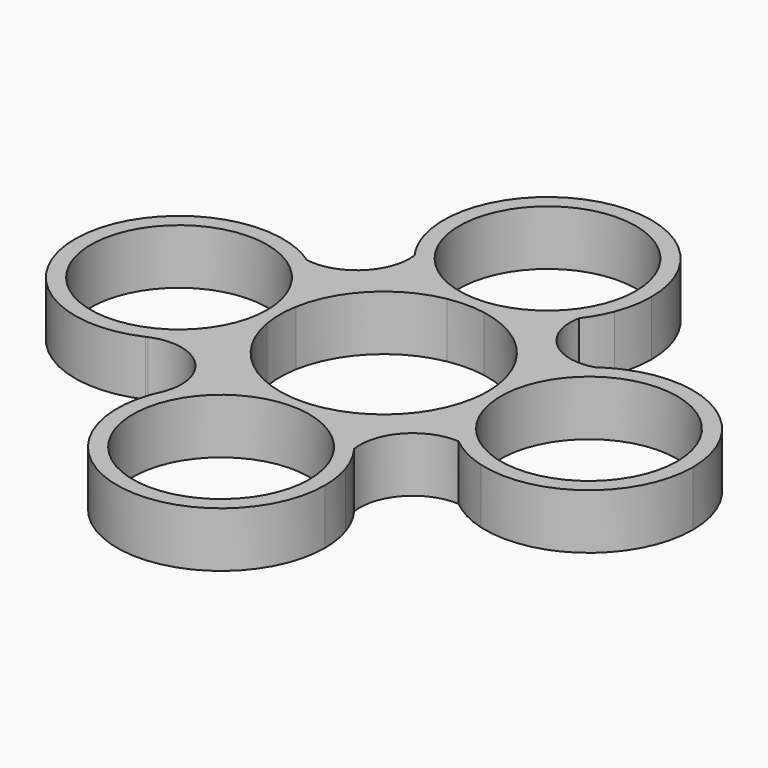
from build123d import *

# Parameters (mm, degrees)
F0_R     = 11.2
F1_DEPTH = 7


with BuildPart() as f1:
    # F0 (on Top) → F1 (new body)
    with BuildSketch(Plane.XY):
        with BuildLine():
            ThreePointArc((13.026173, 2.135137), (13.156472, 1.071101), (13.2, 0))
            ThreePointArc((13.2, 0), (13.156472, -1.071101), (13.026173, -2.135137))
            ThreePointArc((13.026173, -2.135137), (14.605448, -6.573318), (17.642623, -10.174308))
            ThreePointArc((17.642623, -10.174308), (20.336655, -10.92785), (22.492241, -12.710848))
            ThreePointArc((22.492241, -12.710848), (34.028768, -10.517447), (39.252346, 0))
            ThreePointArc((39.252346, 0), (33.297709, 11.033799), (20.806177, 12.112708))
            ThreePointArc((20.806177, 12.112708), (19.638047, 11.252162), (18.302422, 10.685442))
            ThreePointArc((18.302422, 10.685442), (14.818981, 6.93192), (13.026173, 2.135137))
        make_face()
        with Locations((26.052346, 0)):
            Circle(F0_R, mode=Mode.SUBTRACT)
        with BuildLine():
            ThreePointArc((2.335909, 12.991671), (9.405556, 9.261507), (13.026173, 2.135137))
            ThreePointArc((13.026173, 2.135137), (14.818981, 6.93192), (18.302422, 10.685442))
            ThreePointArc((18.302422, 10.685442), (12.328836, 12.090695), (10.464205, 17.9372))
            ThreePointArc((10.464205, 17.9372), (6.861144, 14.70661), (2.335909, 12.991671))
        make_face()
        with BuildLine():
            ThreePointArc((17.642623, -10.174308), (14.605448, -6.573318), (13.026173, -2.135137))
            ThreePointArc((13.026173, -2.135137), (9.552918, -9.109432), (2.751477, -12.910049))
            ThreePointArc((2.751477, -12.910049), (7.102679, -14.693916), (10.552385, -17.889956))
            ThreePointArc((10.552385, -17.889956), (12.254899, -12.338884), (17.642623, -10.174308))
        make_face()
        with BuildLine():
            ThreePointArc((-2.335909, 12.991671), (0, 13.2), (2.335909, 12.991671))
            ThreePointArc((2.335909, 12.991671), (6.861144, 14.70661), (10.464205, 17.9372))
            ThreePointArc((10.464205, 17.9372), (11.132538, 19.713613), (12.305166, 21.206013))
            ThreePointArc((12.305166, 21.206013), (12.974363, 23.553137), (13.2, 25.983343))
            ThreePointArc((13.2, 25.983343), (-1.911461, 39.044213), (-12.646411, 22.200715))
            ThreePointArc((-12.646411, 22.200715), (-11.342134, 20.393236), (-10.703132, 18.257868))
            ThreePointArc((-10.703132, 18.257868), (-7.03117, 14.811833), (-2.335909, 12.991671))
        make_face()
        with Locations((0, 25.983343)):
            Circle(F0_R, mode=Mode.SUBTRACT)
        with BuildLine():
            ThreePointArc((20.806177, 12.112708), (19.51523, 11.467611), (18.302422, 10.685442))
            ThreePointArc((18.302422, 10.685442), (19.638047, 11.252162), (20.806177, 12.112708))
        make_face()
        with BuildLine():
            ThreePointArc((10.552385, -17.889956), (7.102679, -14.693916), (2.751477, -12.910049))
            ThreePointArc((2.751477, -12.910049), (0, -13.2), (-2.751477, -12.910049))
            ThreePointArc((-2.751477, -12.910049), (-8.080001, -15.382016), (-11.808487, -19.920978))
            ThreePointArc((-11.808487, -19.920978), (-3.030509, -38.667512), (13.2, -25.820099))
            ThreePointArc((13.2, -25.820099), (13.039715, -23.769289), (12.562754, -21.768284))
            ThreePointArc((12.562754, -21.768284), (11.234444, -19.996615), (10.552385, -17.889956))
        make_face()
        with Locations((0, -25.820099)):
            Circle(F0_R, mode=Mode.SUBTRACT)
        with BuildLine():
            ThreePointArc((22.492241, -12.710848), (20.336655, -10.92785), (17.642623, -10.174308))
            ThreePointArc((17.642623, -10.174308), (19.934527, -11.696679), (22.492241, -12.710848))
        make_face()
        with BuildLine():
            ThreePointArc((-12.998967, 2.294961), (-9.348503, 9.319092), (-2.335909, 12.991671))
            ThreePointArc((-2.335909, 12.991671), (-7.03117, 14.811833), (-10.703132, 18.257868))
            ThreePointArc((-10.703132, 18.257868), (-12.70956, 12.601772), (-18.441334, 10.823021))
            ThreePointArc((-18.441334, 10.823021), (-14.870725, 7.10107), (-12.998967, 2.294961))
        make_face()
        with BuildLine():
            ThreePointArc((12.305166, 21.206013), (11.132538, 19.713613), (10.464205, 17.9372))
            ThreePointArc((10.464205, 17.9372), (11.501406, 19.50587), (12.305166, 21.206013))
        make_face()
        with BuildLine():
            ThreePointArc((-11.808487, -19.920978), (-8.080001, -15.382016), (-2.751477, -12.910049))
            ThreePointArc((-2.751477, -12.910049), (-9.496797, -9.167925), (-12.998967, -2.294961))
            ThreePointArc((-12.998967, -2.294961), (-15.519744, -8.027921), (-20.399145, -11.953809))
            ThreePointArc((-20.399145, -11.953809), (-13.49629, -13.12581), (-11.808487, -19.920978))
        make_face()
        with BuildLine():
            ThreePointArc((12.562754, -21.768284), (11.71912, -19.745379), (10.552385, -17.889956))
            ThreePointArc((10.552385, -17.889956), (11.234444, -19.996615), (12.562754, -21.768284))
        make_face()
        with BuildLine():
            ThreePointArc((-12.998967, -2.294961), (-13.2, 0), (-12.998967, 2.294961))
            ThreePointArc((-12.998967, 2.294961), (-14.870725, 7.10107), (-18.441334, 10.823021))
            ThreePointArc((-18.441334, 10.823021), (-20.327157, 11.431359), (-21.952488, 12.564807))
            ThreePointArc((-21.952488, 12.564807), (-39.178277, -0.720131), (-20.607655, -12.049269))
            ThreePointArc((-20.607655, -12.049269), (-20.503828, -12.000604), (-20.399145, -11.953809))
            ThreePointArc((-20.399145, -11.953809), (-15.519744, -8.027921), (-12.998967, -2.294961))
        make_face()
        with Locations((-25.997935, 0)):
            Circle(F0_R, mode=Mode.SUBTRACT)
        with BuildLine():
            ThreePointArc((-12.646411, 22.200715), (-11.840051, 20.147831), (-10.703132, 18.257868))
            ThreePointArc((-10.703132, 18.257868), (-11.342134, 20.393236), (-12.646411, 22.200715))
        make_face()
        with BuildLine():
            ThreePointArc((-21.952488, 12.564807), (-20.327157, 11.431359), (-18.441334, 10.823021))
            ThreePointArc((-18.441334, 10.823021), (-20.131903, 11.82496), (-21.952488, 12.564807))
        make_face()
        with BuildLine():
            ThreePointArc((-20.607655, -12.049269), (-20.503193, -12.001992), (-20.399145, -11.953809))
            ThreePointArc((-20.399145, -11.953809), (-20.503828, -12.000604), (-20.607655, -12.049269))
        make_face()
    extrude(amount=F1_DEPTH)


solid = f1.part
